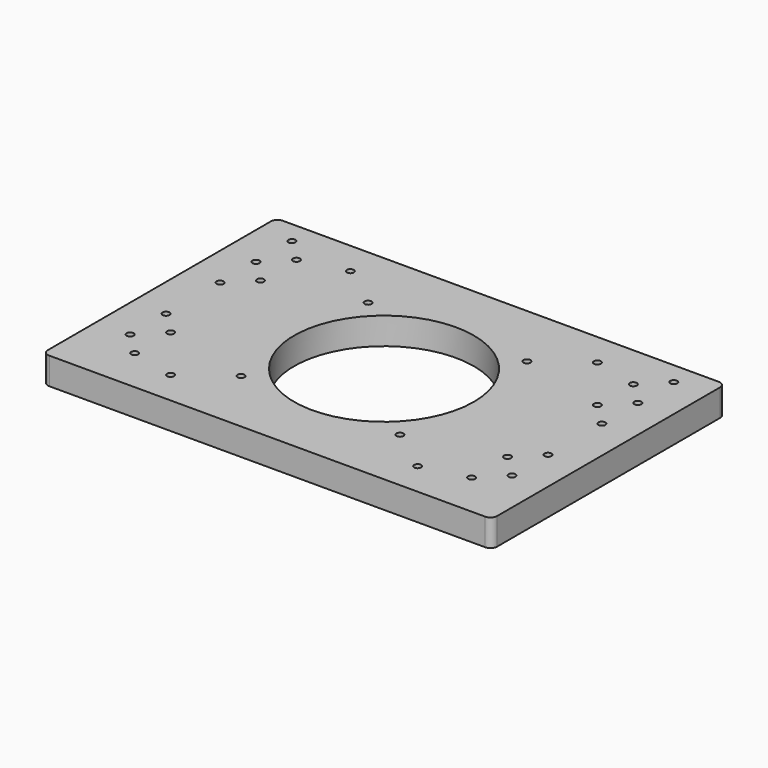
from build123d import *

# Parameters (mm, degrees)
SKETCH_W   = 200
SKETCH_H   = 130
SKETCH_R   = 40
SKETCH_R_2 = 1.5625
PAD_DEPTH  = 12
FILLET_R   = 3


with BuildPart() as part:
    # Sketch → Pad (new body)
    with BuildSketch(Plane.XY):
        with Locations((100, 65)):
            Rectangle(SKETCH_W, SKETCH_H)
        with Locations((100, 65)):
            Circle(SKETCH_R, mode=Mode.SUBTRACT)
        with Locations((45, 115)):
            Circle(SKETCH_R_2, mode=Mode.SUBTRACT)
        with Locations((45, 15)):
            Circle(SKETCH_R_2, mode=Mode.SUBTRACT)
        with Locations((155, 115)):
            Circle(SKETCH_R_2, mode=Mode.SUBTRACT)
        with Locations((155, 15)):
            Circle(SKETCH_R_2, mode=Mode.SUBTRACT)
        with Locations((185, 30)):
            Circle(SKETCH_R_2, mode=Mode.SUBTRACT)
        with Locations((135.355339, 100.355339)):
            Circle(SKETCH_R_2, mode=Mode.SUBTRACT)
        with Locations((64.644661, 29.644661)):
            Circle(SKETCH_R_2, mode=Mode.SUBTRACT)
        with Locations((64.644661, 100.355339)):
            Circle(SKETCH_R_2, mode=Mode.SUBTRACT)
        with Locations((135.355339, 29.644661)):
            Circle(SKETCH_R_2, mode=Mode.SUBTRACT)
        with Locations((175, 20)):
            Circle(SKETCH_R_2, mode=Mode.SUBTRACT)
        with Locations((175, 40)):
            Circle(SKETCH_R_2, mode=Mode.SUBTRACT)
        with Locations((185, 50)):
            Circle(SKETCH_R_2, mode=Mode.SUBTRACT)
        with Locations((175, 90)):
            Circle(SKETCH_R_2, mode=Mode.SUBTRACT)
        with Locations((175, 110)):
            Circle(SKETCH_R_2, mode=Mode.SUBTRACT)
        with Locations((185, 80)):
            Circle(SKETCH_R_2, mode=Mode.SUBTRACT)
        with Locations((185, 100)):
            Circle(SKETCH_R_2, mode=Mode.SUBTRACT)
        with Locations((15, 30)):
            Circle(SKETCH_R_2, mode=Mode.SUBTRACT)
        with Locations((25, 20)):
            Circle(SKETCH_R_2, mode=Mode.SUBTRACT)
        with Locations((25, 40)):
            Circle(SKETCH_R_2, mode=Mode.SUBTRACT)
        with Locations((15, 50)):
            Circle(SKETCH_R_2, mode=Mode.SUBTRACT)
        with Locations((25, 90)):
            Circle(SKETCH_R_2, mode=Mode.SUBTRACT)
        with Locations((25, 110)):
            Circle(SKETCH_R_2, mode=Mode.SUBTRACT)
        with Locations((15, 80)):
            Circle(SKETCH_R_2, mode=Mode.SUBTRACT)
        with Locations((15, 100)):
            Circle(SKETCH_R_2, mode=Mode.SUBTRACT)
        with Locations((15, 120)):
            Circle(SKETCH_R_2, mode=Mode.SUBTRACT)
        with Locations((185, 120)):
            Circle(SKETCH_R_2, mode=Mode.SUBTRACT)
    extrude(amount=PAD_DEPTH)

    # Fillet
    fillet_edges = [part.edges().sort_by_distance(p)[0] for p in [
        (200, 130, 6),
        (0, 130, 6),
        (200, 0, 6),
        (0, 0, 6),
    ]]
    fillet(fillet_edges, radius=FILLET_R)


solid = part.part
